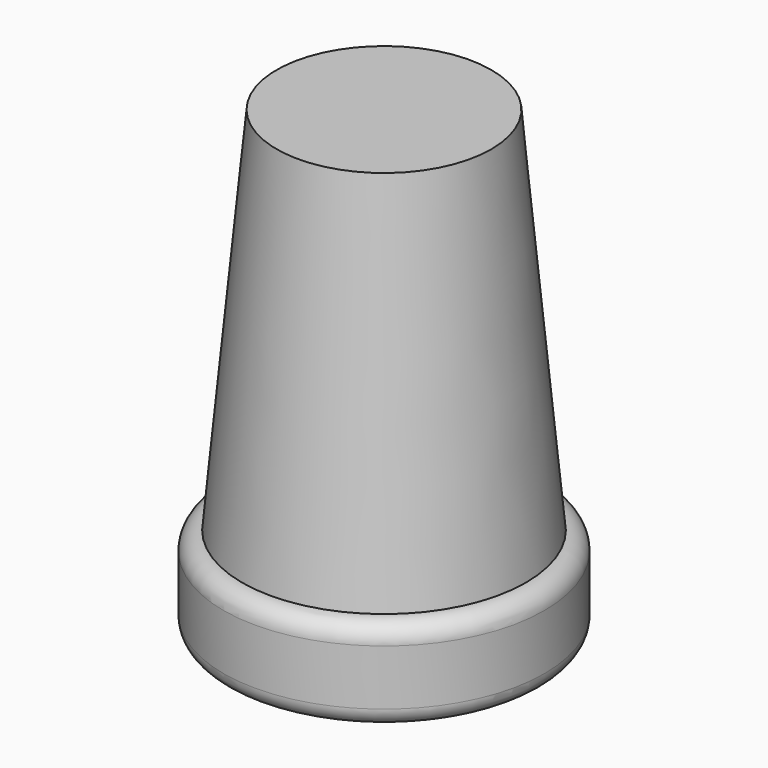
from build123d import *

# Parameters (mm, degrees)
F0_R      = 11.013281
F1_DEPTH  = 6.35
F2_R      = 1.27
F1_FACE_R = 9.743281
F4_R      = 7.366


with BuildPart() as f1:
    # F0 (on Top) → F1 (new body)
    with BuildSketch(Plane.XY):
        Circle(F0_R)
    extrude(amount=F1_DEPTH)

    # F2
    f2_edges = [f1.edges().sort_by_distance(p)[0] for p in [
        (-11.013281, 0, 6.35),
        (-11.013281, 0, 0),
    ]]
    fillet(f2_edges, radius=F2_R)

    # F1_face (on face) → F5 section 0
    with BuildSketch(Plane.XY.offset(6.35)):
        Circle(F1_FACE_R)
    # F4 (on offset) → F5 section 1
    with BuildSketch(Plane.XY.offset(31.75)):
        Circle(F4_R)
    loft()


solid = f1.part
